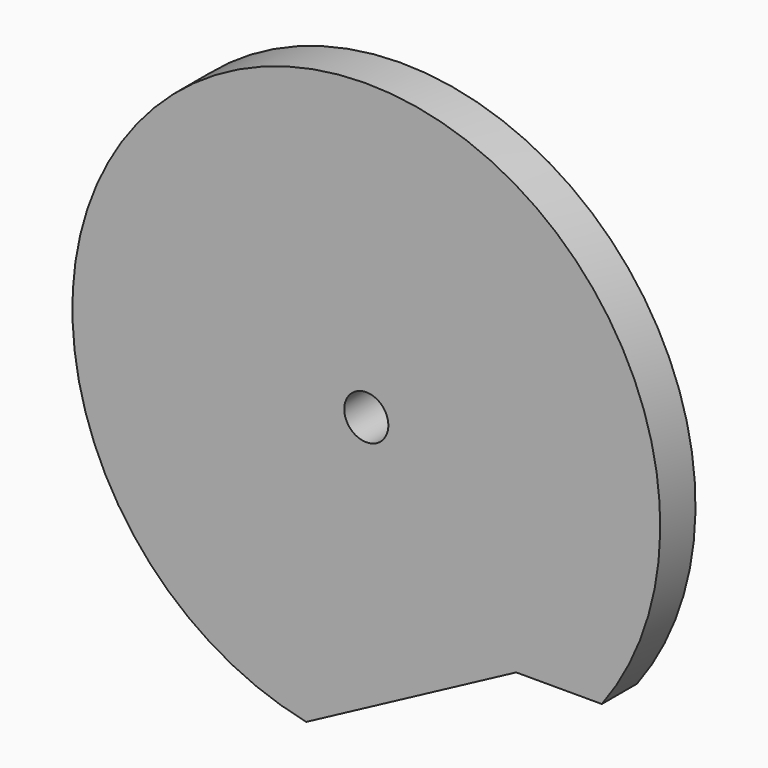
from build123d import *

# Parameters (mm, degrees)
SKETCH014_R     = 20
PAD010_DEPTH    = 3
SKETCH015_R     = 6
PAD011_DEPTH    = 1
SKETCH016_R     = 1.5
POCKET003_DEPTH = 5
POCKET004_DEPTH = 5


with BuildPart() as part:
    # Sketch014 → Pad010 (new body)
    with BuildSketch(Plane.XZ):
        Circle(SKETCH014_R)
    extrude(amount=PAD010_DEPTH)

    # Sketch015 (on Face2 of Pad010) → Pad011 (join)
    with BuildSketch(Plane(origin=(0, 0, 0), x_dir=(1, 0, 0), z_dir=(0, 1, 0))):
        Circle(SKETCH015_R)
    extrude(amount=PAD011_DEPTH)

    # Sketch016 (on Face5 of Pad011) → Pocket003 (cut)
    with BuildSketch(Plane(origin=(0, 1, 0), x_dir=(1, 0, 0), z_dir=(0, 1, 0))):
        Circle(SKETCH016_R)
    extrude(amount=-POCKET003_DEPTH, mode=Mode.SUBTRACT)

    # Sketch020 (on Face3 of Pocket003) → Pocket004 (cut)
    with BuildSketch(Plane.XZ.offset(3)):
        Polygon((17.052171, -11.966453), (10.195413, -11.966453), (-6.895316, -21.074684), (18.587267, -21.074684), align=None)
    extrude(amount=-POCKET004_DEPTH, mode=Mode.SUBTRACT)


with BuildPart() as part_1:
    # Body002 placement: moved
    add(part.part.moved(Location((61.4, -13.9, 30.2))))


solid = part_1.part
